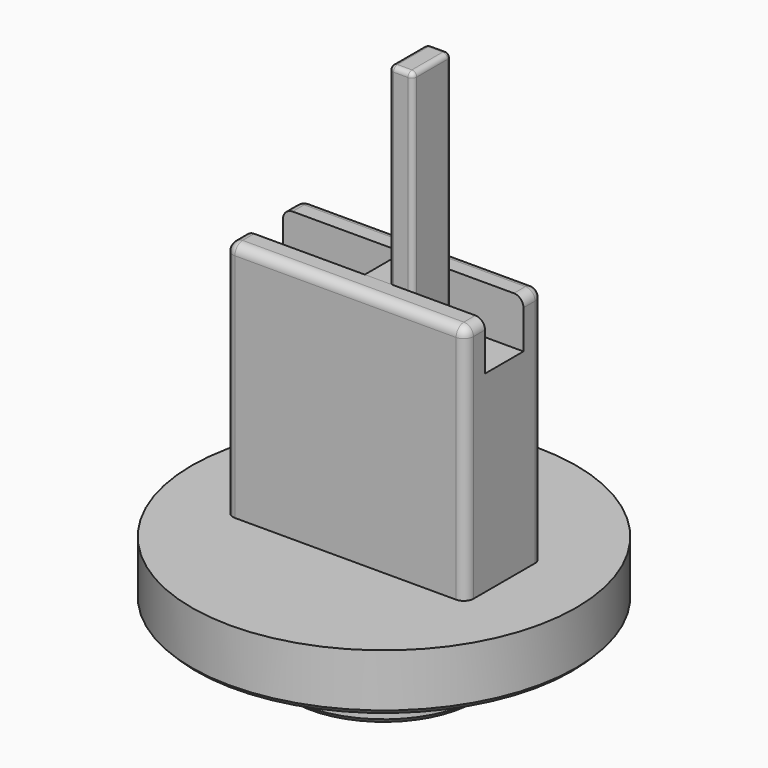
from build123d import *

# Parameters (mm, degrees)
SKETCH_R        = 10
PAD_DEPTH       = 6
CHAMFER_SIZE    = 0.5
SKETCH001_R     = 20
PAD001_DEPTH    = 6
CHAMFER001_SIZE = 0.5
SKETCH002_W     = 25
SKETCH002_H     = 10
PAD002_DEPTH    = 25
FILLET_R        = 1
SKETCH003_W     = 25
SKETCH003_H     = 5
POCKET_DEPTH    = 5
SKETCH004_W     = 5
SKETCH004_H     = 5
PAD003_DEPTH    = 25
SKETCH005_W     = 2.5
SKETCH005_H     = 5
POCKET001_DEPTH = 20
FILLET001_R     = 0.5


with BuildPart() as body:
    # Sketch → Pad (new body)
    with BuildSketch(Plane.XY):
        with Locations((0.010393, -0.038773)):
            Circle(SKETCH_R)
    extrude(amount=PAD_DEPTH)

    # Chamfer
    chamfer_edges = [body.edges().sort_by_distance(p)[0] for p in [
        (-9.989607, -0.038773, 0),
    ]]
    chamfer(chamfer_edges, length=CHAMFER_SIZE)

    # Sketch001 (on Face3 of Chamfer) → Pad001 (join)
    with BuildSketch(Plane.XY.offset(6)):
        Circle(SKETCH001_R)
    extrude(amount=PAD001_DEPTH)

    # Chamfer001
    chamfer001_edges = [body.edges().sort_by_distance(p)[0] for p in [
        (-20, 0, 6),
    ]]
    chamfer(chamfer001_edges, length=CHAMFER001_SIZE)

    # Sketch002 (on Face3 of Chamfer001) → Pad002 (join)
    with BuildSketch(Plane.XY.offset(12)):
        Rectangle(SKETCH002_W, SKETCH002_H)
    extrude(amount=PAD002_DEPTH)

    # Fillet
    fillet_edges = [body.edges().sort_by_distance(p)[0] for p in [
        (-12.5, -5, 24.5),
        (-12.5, 5, 24.5),
        (12.5, -5, 24.5),
        (12.5, 5, 24.5),
        (0, -5, 37),
        (12.5, 0, 37),
        (0, 5, 37),
        (-12.5, 0, 37),
    ]]
    fillet(fillet_edges, radius=FILLET_R)

    # Sketch003 (on Face20 of Fillet) → Pocket (cut)
    with BuildSketch(Plane.XY.offset(37)):
        Rectangle(SKETCH003_W, SKETCH003_H)
    extrude(amount=-POCKET_DEPTH, mode=Mode.SUBTRACT)


with BuildPart() as finger:
    # Sketch004 (on Face1 of CopyPocket) → Pad003 (new body)
    with BuildSketch(Plane.XY.offset(32)):
        with Locations((2.5, 0)):
            Rectangle(SKETCH004_W, SKETCH004_H)
    extrude(amount=PAD003_DEPTH)

    # Sketch005 (on Face6 of Pad003) → Pocket001 (cut)
    with BuildSketch(Plane.XY.offset(57)):
        with Locations((1.25, 0)):
            Rectangle(SKETCH005_W, SKETCH005_H)
    extrude(amount=-POCKET001_DEPTH, mode=Mode.SUBTRACT)

    # Fillet001
    fillet001_edges = [finger.edges().sort_by_distance(p)[0] for p in [
        (2.5, -2.5, 47),
        (2.5, 0, 57),
        (2.5, 2.5, 47),
        (5, -2.5, 44.5),
        (5, 2.5, 44.5),
        (5, 0, 57),
        (3.75, -2.5, 57),
        (3.75, 2.5, 57),
    ]]
    fillet(fillet001_edges, radius=FILLET001_R)


solid = Compound([body.part, finger.part])
